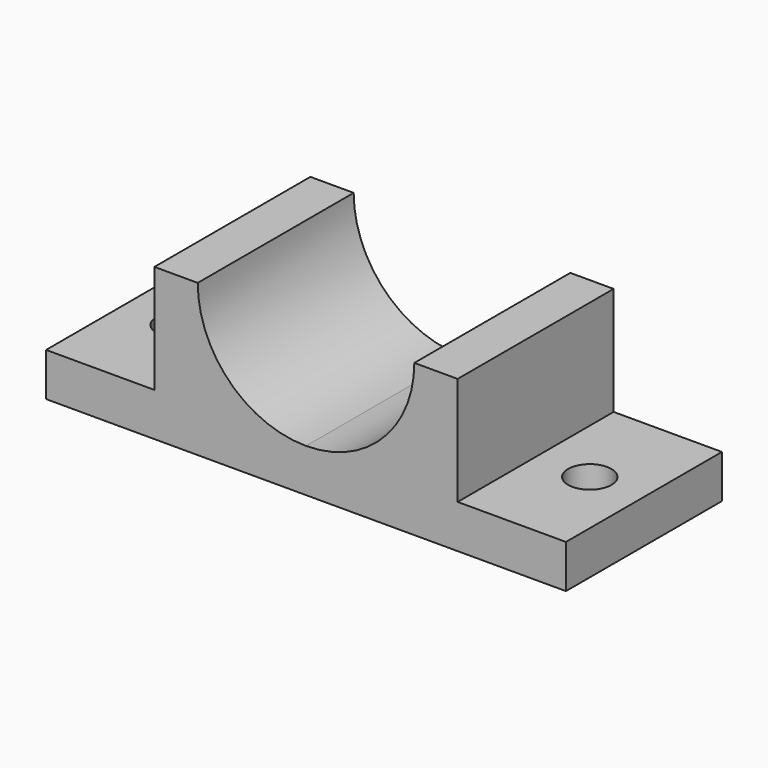
from build123d import *

# Parameters (mm, degrees)
F1_DEPTH = 57.15
F2_R     = 6.35
F3_DEPTH = 25.4


with BuildPart() as f1:
    # F0 (on Front) → F1 (new body)
    with BuildSketch(Plane.XZ):
        with BuildLine():
            Line((-7.879829, 44.45), (-7.879829, 12.7))
            Line((-7.879829, 12.7), (36.570171, 12.7))
            ThreePointArc((36.570171, 12.7), (14.119531, 21.99936), (4.820171, 44.45))
            Line((4.820171, 44.45), (-7.879829, 44.45))
        make_face()
        Polygon((-39.629829, 12.7), (-39.629829, 0), (112.770171, 0), (112.770171, 12.7), (81.020171, 12.7), (36.570171, 12.7), (-7.879829, 12.7), align=None)
        with BuildLine():
            Line((36.570171, 12.7), (81.020171, 12.7))
            Line((81.020171, 12.7), (81.020171, 44.45))
            Line((81.020171, 44.45), (68.320171, 44.45))
            ThreePointArc((68.320171, 44.45), (59.020812, 21.99936), (36.570171, 12.7))
        make_face()
    extrude(amount=F1_DEPTH)

    # F2 (on Top) → F3 (cut)
    with BuildSketch(Plane.XY):
        with Locations((-23.754829, -28.575)):
            Circle(F2_R)
        with Locations((96.895171, -28.575)):
            Circle(F2_R)
    extrude(amount=F3_DEPTH, mode=Mode.SUBTRACT)


solid = f1.part
